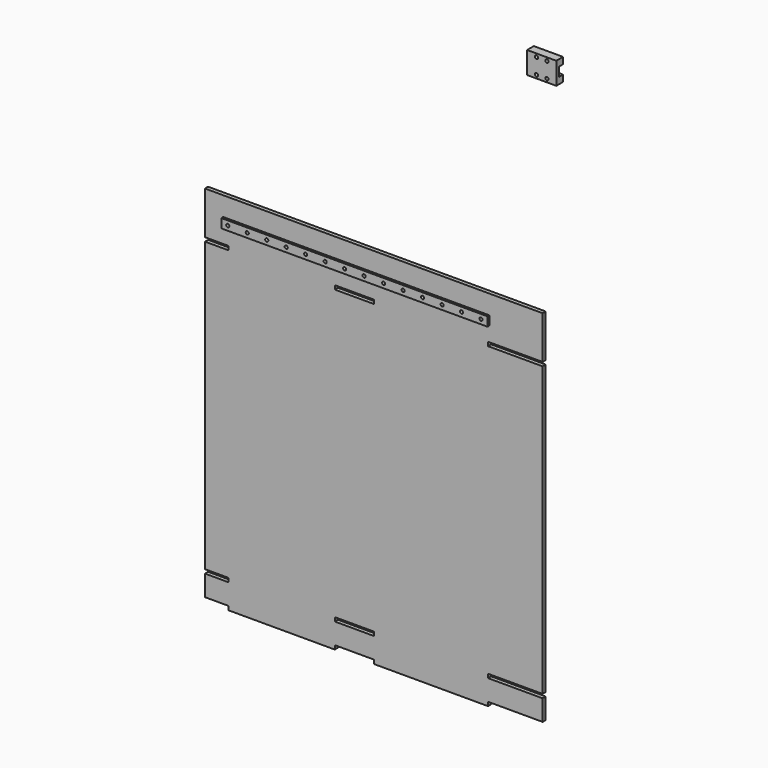
from build123d import *

# Parameters (mm, degrees)
F0_W     = 42
F0_H     = 222
F0_H_2   = 16
F0_W_2   = 30
F0_H_3   = 3
F0_W_3   = 205
F0_H_4   = 7
F0_W_4   = 3
F0_W_5   = 82
F0_W_6   = 85
F0_R     = 1.2
F1_DEPTH = 3
F2_DEPTH = 4.8
F0_W_7   = 22.5
F0_H_5   = 5
F3_DEPTH = 6.5
F4_DEPTH = 4
F5_D     = 2.5
F5_DEPTH = 800
F5_TIP   = 0.7510757738


with BuildPart() as f1:
    # F0 (on Front) → F1 (new body)
    with BuildSketch(Plane.XZ):
        with Locations((109, -7)):
            Rectangle(F0_W, F0_H)
        with Locations((109, -129)):
            Rectangle(F0_W, F0_H_2)
        Polygon((130, 140), (-130, 140), (-130, 107), (-112, 107), (-112, 104), (-130, 104), (-130, -118), (-112, -118), (-30, -118), (0, -118), (85, -118), (85, 104), (88, 104), (88, 107), (130, 107), align=None)
        with Locations((-15, 105.5)):
            Rectangle(F0_W_2, F0_H_3, mode=Mode.SUBTRACT)
        with Locations((-13.4723374248, 121.76)):
            Rectangle(F0_W_3, F0_H_4, mode=Mode.SUBTRACT)
        with Locations((86.5, -138.5)):
            Rectangle(F0_W_4, F0_H_3)
        with Locations((86.5, -7)):
            Rectangle(F0_W_4, F0_H)
        with Locations((86.5, -119.5)):
            Rectangle(F0_W_4, F0_H_3)
        with Locations((86.5, -129)):
            Rectangle(F0_W_4, F0_H_2)
        Polygon((-112, -121), (-130, -121), (-130, -137), (-112, -137), (-30, -137), (0, -137), (85, -137), (85, -121), (0, -121), (-30, -121), align=None)
        with Locations((-71, -138.5)):
            Rectangle(F0_W_5, F0_H_3)
        with Locations((42.5, -138.5)):
            Rectangle(F0_W_6, F0_H_3)
        with Locations((42.5, -119.5)):
            Rectangle(F0_W_6, F0_H_3)
        with Locations((-71, -119.5)):
            Rectangle(F0_W_5, F0_H_3)
        with Locations((-13.4723374248, 121.76)):
            Rectangle(F0_W_3, F0_H_4)
        with Locations((-110.9723374248, 121.76)):
            Circle(F0_R, mode=Mode.SUBTRACT)
        with Locations((-95.9723374248, 121.76)):
            Circle(F0_R, mode=Mode.SUBTRACT)
        with Locations((-80.9723374248, 121.76)):
            Circle(F0_R, mode=Mode.SUBTRACT)
        with Locations((-65.9723374248, 121.76)):
            Circle(F0_R, mode=Mode.SUBTRACT)
        with Locations((-50.9723374248, 121.76)):
            Circle(F0_R, mode=Mode.SUBTRACT)
        with Locations((-35.9723374248, 121.76)):
            Circle(F0_R, mode=Mode.SUBTRACT)
        with Locations((-20.9723374248, 121.76)):
            Circle(F0_R, mode=Mode.SUBTRACT)
        with Locations((-5.9723374248, 121.76)):
            Circle(F0_R, mode=Mode.SUBTRACT)
        with Locations((9.0276625752, 121.76)):
            Circle(F0_R, mode=Mode.SUBTRACT)
        with Locations((24.0276625752, 121.76)):
            Circle(F0_R, mode=Mode.SUBTRACT)
        with Locations((39.0276625752, 121.76)):
            Circle(F0_R, mode=Mode.SUBTRACT)
        with Locations((54.0276625752, 121.76)):
            Circle(F0_R, mode=Mode.SUBTRACT)
        with Locations((69.0276625752, 121.76)):
            Circle(F0_R, mode=Mode.SUBTRACT)
        with Locations((84.0276625752, 121.76)):
            Circle(F0_R, mode=Mode.SUBTRACT)
    extrude(amount=F1_DEPTH)


with BuildPart() as f2:
    # F0 (on Front) → F2 (new body)
    with BuildSketch(Plane.XZ):
        with Locations((-13.4723374248, 121.76)):
            Rectangle(F0_W_3, F0_H_4)
        with Locations((-110.9723374248, 121.76)):
            Circle(F0_R, mode=Mode.SUBTRACT)
        with Locations((-95.9723374248, 121.76)):
            Circle(F0_R, mode=Mode.SUBTRACT)
        with Locations((-80.9723374248, 121.76)):
            Circle(F0_R, mode=Mode.SUBTRACT)
        with Locations((-65.9723374248, 121.76)):
            Circle(F0_R, mode=Mode.SUBTRACT)
        with Locations((-50.9723374248, 121.76)):
            Circle(F0_R, mode=Mode.SUBTRACT)
        with Locations((-35.9723374248, 121.76)):
            Circle(F0_R, mode=Mode.SUBTRACT)
        with Locations((-20.9723374248, 121.76)):
            Circle(F0_R, mode=Mode.SUBTRACT)
        with Locations((-5.9723374248, 121.76)):
            Circle(F0_R, mode=Mode.SUBTRACT)
        with Locations((9.0276625752, 121.76)):
            Circle(F0_R, mode=Mode.SUBTRACT)
        with Locations((24.0276625752, 121.76)):
            Circle(F0_R, mode=Mode.SUBTRACT)
        with Locations((39.0276625752, 121.76)):
            Circle(F0_R, mode=Mode.SUBTRACT)
        with Locations((54.0276625752, 121.76)):
            Circle(F0_R, mode=Mode.SUBTRACT)
        with Locations((69.0276625752, 121.76)):
            Circle(F0_R, mode=Mode.SUBTRACT)
        with Locations((84.0276625752, 121.76)):
            Circle(F0_R, mode=Mode.SUBTRACT)
    extrude(amount=F2_DEPTH)


with BuildPart() as f3:
    # F0 (on Front) → F3 (new body)
    with BuildSketch(Plane.XZ):
        with Locations((132.1012344956, 302.3752444983)):
            Rectangle(F0_W_7, F0_H_5)
        with Locations((132.1012344956, 308.3752444983)):
            Rectangle(F0_W_7, F0_H_4)
        with Locations((132.1012344956, 314.3752444983)):
            Rectangle(F0_W_7, F0_H_5)
    extrude(amount=F3_DEPTH)

    # F0 (on Front) → F4 (cut)
    with BuildSketch(Plane.XZ):
        with Locations((132.1012344956, 308.3752444983)):
            Rectangle(F0_W_7, F0_H_4)
    extrude(amount=F4_DEPTH, mode=Mode.SUBTRACT)

    # F5
    with Locations(Plane(origin=(0, 0, 0), x_dir=(1, 0, 0), z_dir=(0, 1, 0))):
        with Locations((136.1012344956, -314.3752444983), (128.1012344956, -314.3752444983), (128.1012344956, -302.3752444983), (136.1012344956, -302.3752444983)):
            Hole(F5_D / 2, depth=F5_DEPTH)
            with Locations((0, 0, -(F5_DEPTH + F5_TIP / 2))):  # 118° drill point
                Cone(0, F5_D / 2, F5_TIP, mode=Mode.SUBTRACT)


solid = Compound([f1.part, f2.part, f3.part])
